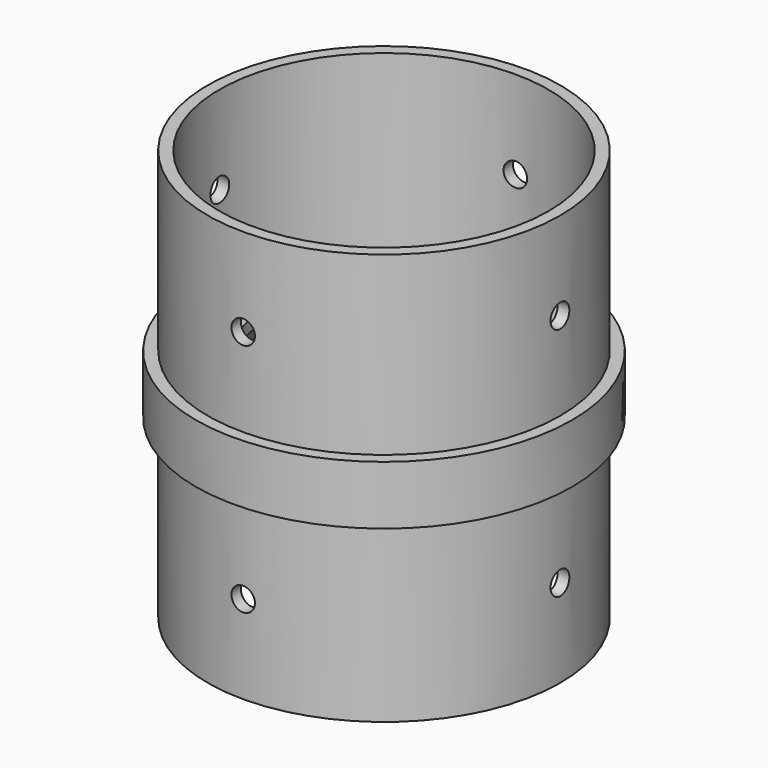
from build123d import *

# Parameters (mm, degrees)
CYLINDER_R            = 30
CYLINDER_DEPTH        = 70
CYLINDER001_R         = 32
CYLINDER001_DEPTH     = 10
SKETCH_R              = 20
POCKET_DEPTH          = 0.001
POCKET_DEPTH_BACK     = 70.001
SKETCH002_R           = 3
POCKET002_DEPTH       = 228.841556
POCKET002_DEPTH_BACK  = 298.841556
POLARPATTERN_COUNT    = 6
SKETCH001_R           = 28
POCKET003_DEPTH       = 30
SKETCH003_R           = 28
POCKET004_DEPTH       = 30
SKETCH004_R           = 2
POCKET005_DEPTH       = 260.841556
POCKET005_DEPTH_BACK  = 260.841556
POLARPATTERN001_COUNT = 4
POCKET006_DEPTH       = 8


with BuildPart() as obj1:
    # Cone → Cone (revolve)
    with BuildSketch(Plane(origin=(0, 0, 30), x_dir=(1, 0, 0), z_dir=(0, -1, 0))):
        Polygon((0, 0), (28, 0), (20, 8), (0, 8), align=None)
    revolve(axis=Axis((0, 0, 30), (0, 0, 1)))


with BuildPart() as corps_principal:
    # Cylinder → Cylinder (join)
    with BuildSketch(Plane(origin=(0, 0, 0), x_dir=(0.866025, -0.5, 0), z_dir=(0, 0, 1))):
        Circle(CYLINDER_R)
    extrude(amount=CYLINDER_DEPTH)

    # Cylinder001 → Cylinder001 (join)
    with BuildSketch(Plane.XY.offset(30)):
        Circle(CYLINDER001_R)
    extrude(amount=CYLINDER001_DEPTH)

    # Sketch → Pocket (cut, two sides)
    with BuildSketch(Plane.XY) as pocket_sk:
        Circle(SKETCH_R)
    extrude(amount=-POCKET_DEPTH, mode=Mode.SUBTRACT)
    extrude(pocket_sk.sketch, amount=POCKET_DEPTH_BACK, mode=Mode.SUBTRACT)

    # Sketch002 → Pocket002 (cut, two sides)
    with BuildSketch(Plane(origin=(0, 0, 0), x_dir=(0.866025, 0.5, 0), z_dir=(0, 0, 1))) as pocket002_sk:
        with Locations((-25, 0)):
            Circle(SKETCH002_R)
    pocket002 = extrude(amount=-POCKET002_DEPTH, mode=Mode.SUBTRACT) + extrude(pocket002_sk.sketch, amount=POCKET002_DEPTH_BACK, mode=Mode.SUBTRACT)

    # PolarPattern: Pocket002 ×6 about axis
    polarpattern_axis = Axis((0, 0, 0), (0, 0, 1))
    for i in range(1, POLARPATTERN_COUNT):
        add(pocket002.rotate(polarpattern_axis, i * 360 / POLARPATTERN_COUNT), mode=Mode.SUBTRACT)

    # Sketch001 → Pocket003 (cut)
    with BuildSketch(Plane.XY):
        Circle(SKETCH001_R)
    extrude(amount=POCKET003_DEPTH, mode=Mode.SUBTRACT)

    # Sketch003 → Pocket004 (cut)
    with BuildSketch(Plane.XY.offset(40)):
        Circle(SKETCH003_R)
    extrude(amount=POCKET004_DEPTH, mode=Mode.SUBTRACT)

    # Boolean: cut obj1
    add(obj1.part, mode=Mode.SUBTRACT)

    # Sketch004 → Pocket005 (cut, two sides)
    with BuildSketch(Plane.YZ) as pocket005_sk:
        with Locations((0, 55)):
            Circle(SKETCH004_R)
        with Locations((0, 15)):
            Circle(SKETCH004_R)
    pocket005 = extrude(amount=-POCKET005_DEPTH, mode=Mode.SUBTRACT) + extrude(pocket005_sk.sketch, amount=POCKET005_DEPTH_BACK, mode=Mode.SUBTRACT)

    # PolarPattern001: Pocket005 ×4 about axis
    polarpattern001_axis = Axis((0, 0, 0), (0, 0, 1))
    for i in range(1, POLARPATTERN001_COUNT):
        add(pocket005.rotate(polarpattern001_axis, i * 360 / POLARPATTERN001_COUNT), mode=Mode.SUBTRACT)

    # Sketch005 → Pocket006 (cut)
    with BuildSketch(Plane(origin=(32, 20, 38), x_dir=(-0.5, 0.866025, 0), z_dir=(0.866025, 0.5, 0))):
        Polygon((0, 0), (1.5, -6), (-1.5, -6), align=None)
    extrude(amount=-POCKET006_DEPTH, mode=Mode.SUBTRACT)


solid = corps_principal.part
